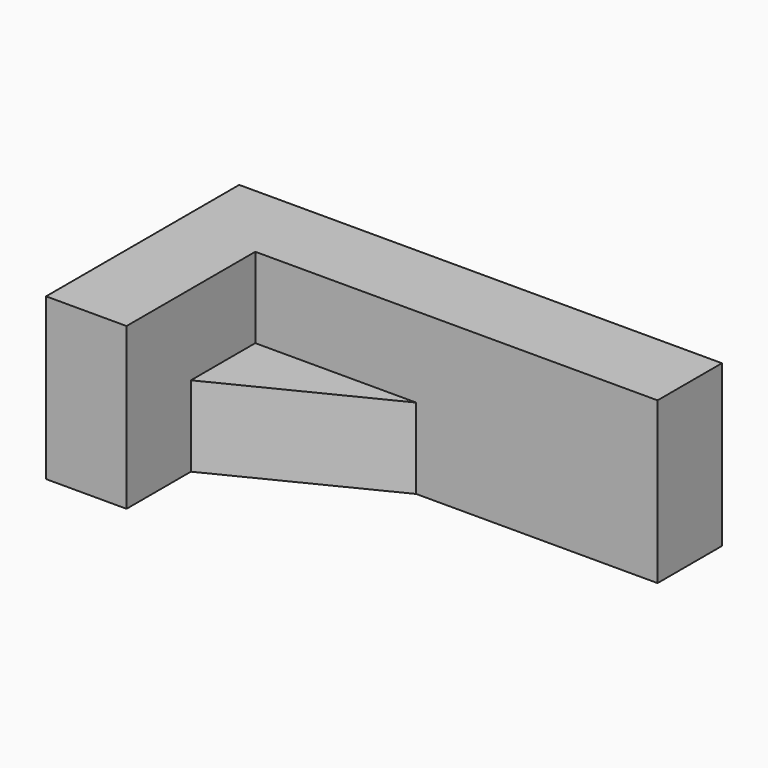
from build123d import *

# Parameters (mm, degrees)
F0_W     = 50.8
F0_H     = 25.4
F1_DEPTH = 76.2
F3_DEPTH = 76.2
F5_DEPTH = 25.4


with BuildPart() as f1:
    # F0 (on Front) → F1 (new body)
    with BuildSketch(Plane.XZ):
        Polygon((0, 50.8), (0, 0), (25.4, 0), (25.4, 25.4), (25.4, 50.8), align=None)
        Polygon((152.4, 50.8), (25.4, 50.8), (25.4, 25.4), (76.2, 25.4), (76.2, 0), (152.4, 0), align=None)
        with Locations((50.8, 12.7)):
            Rectangle(F0_W, F0_H)
    extrude(amount=-F1_DEPTH)

    # F2 (on face) → F3 (cut)
    with BuildSketch(Plane.XY.offset(50.8)):
        Polygon((152.4, 0), (152.4, 50.8), (76.2, 50.8), (25.4, 25.4), (25.4, 0), align=None)
    extrude(amount=-F3_DEPTH, mode=Mode.SUBTRACT)

    # F4 (on face) → F5 (cut)
    with BuildSketch(Plane.XY.offset(50.8)):
        Polygon((25.4, 50.8), (25.4, 25.4), (76.2, 50.8), align=None)
    extrude(amount=-F5_DEPTH, mode=Mode.SUBTRACT)


solid = f1.part
